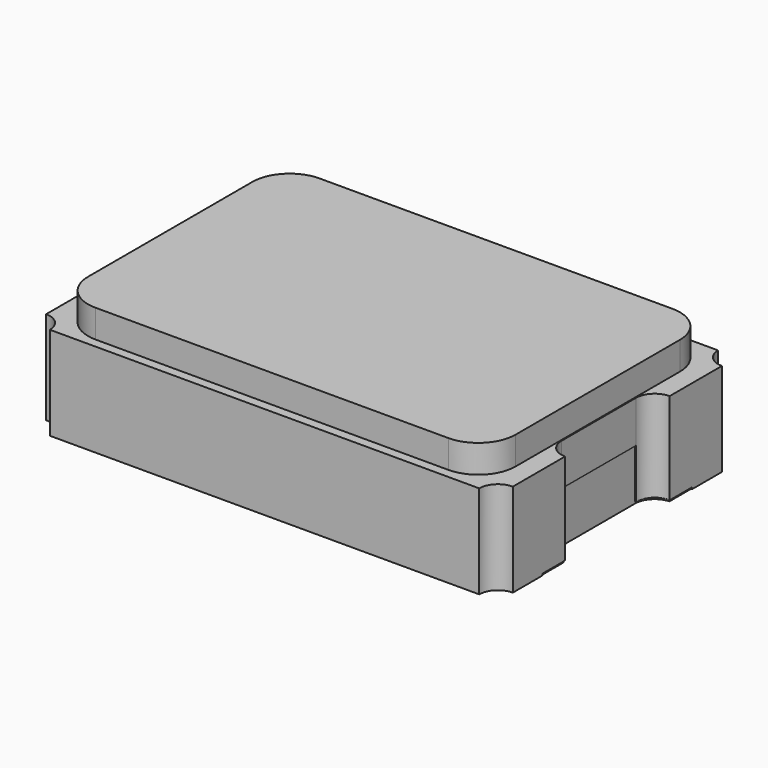
from build123d import *

# Parameters (mm, degrees)
PAD_DEPTH               = 1
SKETCH004_W             = 1
SKETCH004_H             = 0.55
POCKET_DEPTH            = 0.02
SKETCH005_W             = 1.3
SKETCH005_H             = 2
POCKET001_DEPTH         = 0.02
SKETCH006_W             = 1
SKETCH006_H             = 0.55
POCKET002_DEPTH         = 0.02
SKETCH007_W             = 1.3
SKETCH007_H             = 2
POCKET003_DEPTH         = 0.02
PAD002_DEPTH            = 0.55
PAD003_DEPTH            = 0.55
BODY002_PLACEMENT_ANGLE = 180
PAD004_DEPTH            = 0.3


with BuildPart() as body:
    # Sketch → Pad (new body)
    with BuildSketch(Plane.XY):
        with BuildLine():
            Line((-2.3, 1.6), (2.3, 1.6))
            ThreePointArc((2.3, 1.6), (2.358579, 1.458579), (2.5, 1.4))
            Line((2.5, 1.4), (2.5, 0.7))
            ThreePointArc((2.5, 0.7), (2.358579, 0.641421), (2.3, 0.5))
            Line((2.3, 0.5), (2.3, -0.5))
            ThreePointArc((2.3, -0.5), (2.358579, -0.641421), (2.5, -0.7))
            Line((2.5, -0.7), (2.5, -1.4))
            ThreePointArc((2.5, -1.4), (2.358579, -1.458579), (2.3, -1.6))
            Line((-2.3, -1.6), (2.3, -1.6))
            ThreePointArc((-2.3, -1.6), (-2.358579, -1.458579), (-2.5, -1.4))
            Line((-2.5, -0.7), (-2.5, -1.4))
            ThreePointArc((-2.5, -0.7), (-2.358579, -0.641421), (-2.3, -0.5))
            Line((-2.3, 0.5), (-2.3, -0.5))
            ThreePointArc((-2.3, 0.5), (-2.358579, 0.641421), (-2.5, 0.7))
            Line((-2.5, 1.4), (-2.5, 0.7))
            ThreePointArc((-2.5, 1.4), (-2.358579, 1.458579), (-2.3, 1.6))
        make_face()
    extrude(amount=PAD_DEPTH)

    # Sketch004 → Pocket (cut)
    with BuildSketch(Plane(origin=(-2.3, 0, 0), x_dir=(0, -1, 0), z_dir=(-1, 0, 0))):
        with Locations((0, 0.275)):
            Rectangle(SKETCH004_W, SKETCH004_H)
    extrude(amount=-POCKET_DEPTH, mode=Mode.SUBTRACT)

    # Sketch005 (on Face4 of Pocket) → Pocket001 (cut)
    with BuildSketch(Plane(origin=(0, 0, 0), x_dir=(1, 0, 0), z_dir=(0, 0, -1))):
        with Locations((-1.85, 0)):
            Rectangle(SKETCH005_W, SKETCH005_H)
    extrude(amount=-POCKET001_DEPTH, mode=Mode.SUBTRACT)

    # Sketch006 (on Face18 of Pocket001) → Pocket002 (cut)
    with BuildSketch(Plane.YZ.offset(2.3)):
        with Locations((0, 0.275)):
            Rectangle(SKETCH006_W, SKETCH006_H)
    extrude(amount=-POCKET002_DEPTH, mode=Mode.SUBTRACT)

    # Sketch007 (on Face4 of Pocket002) → Pocket003 (cut)
    with BuildSketch(Plane(origin=(0, 0, 0), x_dir=(1, 0, 0), z_dir=(0, 0, -1))):
        with Locations((1.85, 0)):
            Rectangle(SKETCH007_W, SKETCH007_H)
    extrude(amount=-POCKET003_DEPTH, mode=Mode.SUBTRACT)


with BuildPart() as padright:
    # Sketch003 (on ShapeBinder) → Pad002 (new body)
    with BuildSketch(Plane(origin=(0, 0, 0), x_dir=(1, 0, 0), z_dir=(0, 0, -1))):
        with BuildLine():
            Line((-2.49, 1), (-1.19, 1))
            Line((-1.19, 1), (-1.19, -1))
            Line((-1.19, -1), (-2.49, -1))
            Line((-2.49, -0.709762), (-2.49, -1))
            ThreePointArc((-2.49, -0.709762), (-2.348013, -0.644914), (-2.29, -0.5))
            Line((-2.29, 0.5), (-2.29, -0.5))
            ThreePointArc((-2.29, 0.5), (-2.348013, 0.644914), (-2.49, 0.709762))
            Line((-2.49, 1), (-2.49, 0.709762))
        make_face()
    extrude(amount=-PAD002_DEPTH)

    # Sketch003 (on ShapeBinder) → Pad003 (join)
    with BuildSketch(Plane(origin=(0, 0, 0), x_dir=(1, 0, 0), z_dir=(0, 0, -1))):
        with BuildLine():
            Line((-2.49, 1), (-1.19, 1))
            Line((-1.19, 1), (-1.19, -1))
            Line((-1.19, -1), (-2.49, -1))
            Line((-2.49, -0.709762), (-2.49, -1))
            ThreePointArc((-2.49, -0.709762), (-2.348013, -0.644914), (-2.29, -0.5))
            Line((-2.29, 0.5), (-2.29, -0.5))
            ThreePointArc((-2.29, 0.5), (-2.348013, 0.644914), (-2.49, 0.709762))
            Line((-2.49, 1), (-2.49, 0.709762))
        make_face()
    extrude(amount=-PAD003_DEPTH)


with BuildPart() as padright_1:
    # Body002 placement: moved
    add(padright.part.moved(Location((0, 0, 0))).rotate(Axis((0, 0, 0), (0, 0, 1)), BODY002_PLACEMENT_ANGLE))


with BuildPart() as top:
    # Sketch008 (on ShapeBinder) → Pad004 (new body)
    with BuildSketch(Plane.XY.offset(1)):
        with BuildLine():
            Line((-1.89, 1.5), (1.89, 1.5))
            ThreePointArc((2.29, 1.1), (2.172843, 1.382843), (1.89, 1.5))
            Line((2.29, 1.1), (2.29, -1.1))
            ThreePointArc((1.89, -1.5), (2.172843, -1.382843), (2.29, -1.1))
            Line((1.89, -1.5), (-1.89, -1.5))
            ThreePointArc((-2.29, -1.1), (-2.172843, -1.382843), (-1.89, -1.5))
            Line((-2.29, -1.1), (-2.29, 1.1))
            ThreePointArc((-1.89, 1.5), (-2.172843, 1.382843), (-2.29, 1.1))
        make_face()
    extrude(amount=PAD004_DEPTH)


solid = Compound([body.part, padright_1.part, top.part])
